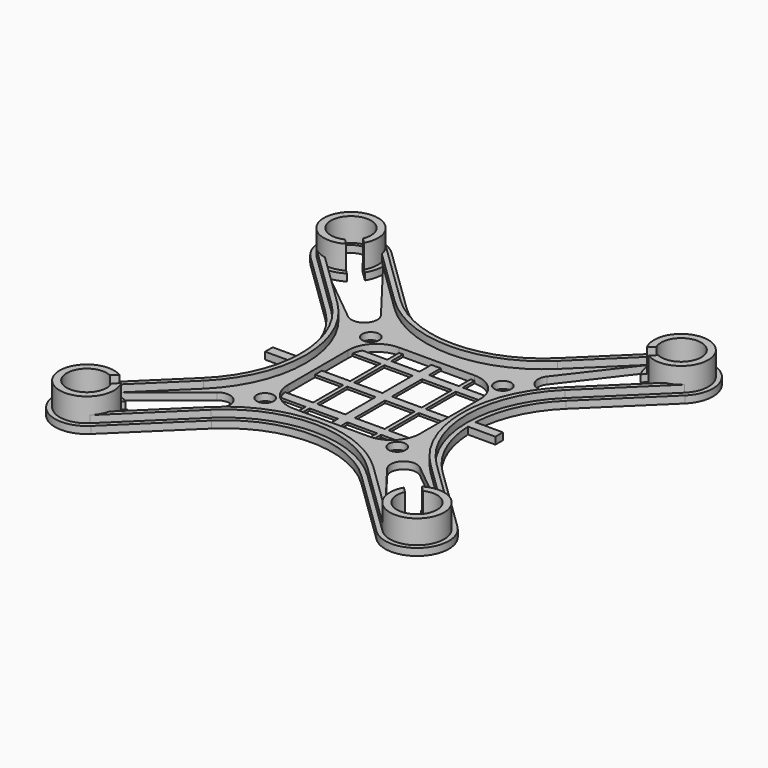
from build123d import *

# Parameters (mm, degrees)
F0_R     = 1.8
F1_DEPTH = 1.5
F3_DEPTH = 5
F4_W     = 6
F4_H     = 8
F4_W_2   = 6.3173136708
F4_H_2   = 7.9847562218
F5_DEPTH = 0.5
F7_DEPTH = 1.5


with BuildPart() as f1:
    # F0 (on Top) → F1 (new body)
    with BuildSketch(Plane.XY):
        with BuildLine():
            ThreePointArc((30.2947208453, -39.839715702), (39.839715702, -39.7052791547), (39.7052791547, -30.160284298))
            Line((39.7052791547, -30.160284298), (25.4737343034, -16.324060137))
            ThreePointArc((25.4737343034, -16.324060137), (20.5716490229, -9.3191358224), (18.5989899244, -1))
            Line((18.5989899244, -1), (18.4, -1))
            Line((18.4, -1), (18.4, 1))
            Line((18.4, 1), (18.5989899244, 1))
            ThreePointArc((18.5989899244, 1), (20.5716490229, 9.3191358224), (25.4737343034, 16.324060137))
            Line((25.4737343034, 16.324060137), (39.7052791547, 30.160284298))
            ThreePointArc((39.7052791547, 30.160284298), (39.839715702, 39.7052791547), (30.2947208453, 39.839715702))
            Line((30.2947208453, 39.839715702), (15.8843253479, 25.8296089685))
            ThreePointArc((15.8843253479, 25.8296089685), (0, 19.3807721835), (-15.8843253479, 25.8296089685))
            Line((-15.8843253479, 25.8296089685), (-30.2947208453, 39.839715702))
            ThreePointArc((-30.2947208453, 39.839715702), (-39.839715702, 39.7052791547), (-39.7052791547, 30.160284298))
            Line((-39.7052791547, 30.160284298), (-25.4737343034, 16.324060137))
            ThreePointArc((-25.4737343034, 16.324060137), (-20.5716490229, 9.3191358224), (-18.5989899244, 1))
            Line((-18.5989899244, 1), (-18.4, 1))
            Line((-18.4, 1), (-18.4, -1))
            Line((-18.4, -1), (-18.5989899244, -1))
            ThreePointArc((-18.5989899244, -1), (-20.5716490229, -9.3191358224), (-25.4737343034, -16.324060137))
            Line((-25.4737343034, -16.324060137), (-39.7052791547, -30.160284298))
            ThreePointArc((-39.7052791547, -30.160284298), (-39.839715702, -39.7052791547), (-30.2947208453, -39.839715702))
            Line((-30.2947208453, -39.839715702), (-15.8843253479, -25.8296089685))
            ThreePointArc((-15.8843253479, -25.8296089685), (0, -19.3807721835), (15.8843253479, -25.8296089685))
            Line((15.8843253479, -25.8296089685), (30.2947208453, -39.839715702))
        make_face()
        with BuildLine():
            Line((-33.7782805757, -31.7201521913), (-31.326913931, -29.3368790645))
            ThreePointArc((-31.326913931, -29.3368790645), (-33.0237108275, -28.5457935339), (-34.8725355344, -28.2512036029))
            Line((-34.8725355344, -28.2512036029), (-21.5236645835, -17.3894939319))
            ThreePointArc((-21.5236645835, -17.3894939319), (-17.8712196925, -17.5506774511), (-17.6066202289, -21.197089514))
            Line((-17.6066202289, -21.197089514), (-28.2502907982, -35.0626553316))
            ThreePointArc((-28.2502907982, -35.0626553316), (-28.4926946348, -33.2062673322), (-29.2356787512, -31.487863821))
            Line((-29.2356787512, -31.487863821), (-31.6870453958, -33.8711369477))
            ThreePointArc((-31.6870453958, -33.8711369477), (-37.5094822159, -37.4397743765), (-33.7782805757, -31.7201521913))
        make_face(mode=Mode.SUBTRACT)
        with Locations((-14, -14)):
            Circle(F0_R, mode=Mode.SUBTRACT)
        with BuildLine():
            ThreePointArc((33.7782805757, -31.7201521913), (37.5094822159, -37.4397743765), (31.6870453958, -33.8711369477))
            Line((31.6870453958, -33.8711369477), (29.2356787512, -31.487863821))
            ThreePointArc((29.2356787512, -31.487863821), (28.4926946348, -33.2062673322), (28.2502907982, -35.0626553316))
            Line((28.2502907982, -35.0626553316), (17.6066202289, -21.197089514))
            ThreePointArc((17.6066202289, -21.197089514), (17.8712196925, -17.5506774511), (21.5236645835, -17.3894939319))
            Line((21.5236645835, -17.3894939319), (34.8725355344, -28.2512036029))
            ThreePointArc((34.8725355344, -28.2512036029), (33.0237108275, -28.5457935339), (31.326913931, -29.3368790645))
            Line((31.326913931, -29.3368790645), (33.7782805757, -31.7201521913))
        make_face(mode=Mode.SUBTRACT)
        with Locations((14, -14)):
            Circle(F0_R, mode=Mode.SUBTRACT)
        with Locations((-14, 14)):
            Circle(F0_R, mode=Mode.SUBTRACT)
        with BuildLine():
            ThreePointArc((-33.7782805757, 31.7201521913), (-37.5094822159, 37.4397743765), (-31.6870453958, 33.8711369477))
            Line((-31.6870453958, 33.8711369477), (-29.2356787512, 31.487863821))
            ThreePointArc((-29.2356787512, 31.487863821), (-28.4926946348, 33.2062673322), (-28.2502907982, 35.0626553316))
            Line((-28.2502907982, 35.0626553316), (-17.6066202289, 21.197089514))
            ThreePointArc((-17.6066202289, 21.197089514), (-17.8712196925, 17.5506774511), (-21.5236645835, 17.3894939319))
            Line((-21.5236645835, 17.3894939319), (-34.8725355344, 28.2512036029))
            ThreePointArc((-34.8725355344, 28.2512036029), (-33.0237108275, 28.5457935339), (-31.326913931, 29.3368790645))
            Line((-31.326913931, 29.3368790645), (-33.7782805757, 31.7201521913))
        make_face(mode=Mode.SUBTRACT)
        with BuildLine():
            ThreePointArc((14, -8), (12.2426406871, -12.2426406871), (8, -14))
            Line((8, -14), (-8, -14))
            ThreePointArc((-8, -14), (-12.2426406871, -12.2426406871), (-14, -8))
            Line((-14, -8), (-14, 8))
            ThreePointArc((-14, 8), (-12.2426406871, 12.2426406871), (-8, 14))
            Line((-8, 14), (8, 14))
            ThreePointArc((8, 14), (12.2426406871, 12.2426406871), (14, 8))
            Line((14, 8), (14, -8))
        make_face(mode=Mode.SUBTRACT)
        with Locations((14, 14)):
            Circle(F0_R, mode=Mode.SUBTRACT)
        with BuildLine():
            ThreePointArc((31.326913931, 29.3368790645), (33.0237108275, 28.5457935339), (34.8725355344, 28.2512036029))
            Line((34.8725355344, 28.2512036029), (21.5236645835, 17.3894939319))
            ThreePointArc((21.5236645835, 17.3894939319), (17.8712196925, 17.5506774511), (17.6066202289, 21.197089514))
            Line((17.6066202289, 21.197089514), (28.2502907982, 35.0626553316))
            ThreePointArc((28.2502907982, 35.0626553316), (28.4926946348, 33.2062673322), (29.2356787512, 31.487863821))
            Line((29.2356787512, 31.487863821), (31.6870453958, 33.8711369477))
            ThreePointArc((31.6870453958, 33.8711369477), (37.5094822159, 37.4397743765), (33.7782805757, 31.7201521913))
            Line((33.7782805757, 31.7201521913), (31.326913931, 29.3368790645))
        make_face(mode=Mode.SUBTRACT)
        with BuildLine():
            Line((18.4, -1), (18.5989899244, -1))
            ThreePointArc((18.5989899244, -1), (18.5770180298, 0), (18.5989899244, 1))
            Line((18.5989899244, 1), (18.4, 1))
            Line((18.4, 1), (18.4, -1))
        make_face()
        with BuildLine():
            ThreePointArc((18.5989899244, 1), (18.5770180298, 0), (18.5989899244, -1))
            Line((18.5989899244, -1), (24.4, -1))
            Line((24.4, -1), (24.4, 1))
            Line((24.4, 1), (18.5989899244, 1))
        make_face()
        with BuildLine():
            Line((-24.4, -1), (-18.5989899244, -1))
            ThreePointArc((-18.5989899244, -1), (-18.5770180298, 0), (-18.5989899244, 1))
            Line((-18.5989899244, 1), (-24.4, 1))
            Line((-24.4, 1), (-24.4, -1))
        make_face()
        with BuildLine():
            ThreePointArc((-18.5989899244, 1), (-18.5770180298, 0), (-18.5989899244, -1))
            Line((-18.5989899244, -1), (-18.4, -1))
            Line((-18.4, -1), (-18.4, 1))
            Line((-18.4, 1), (-18.5989899244, 1))
        make_face()
    extrude(amount=F1_DEPTH)

    # F2 (on face) → F3 (join)
    with BuildSketch(Plane.XY.offset(1.5)):
        with BuildLine():
            ThreePointArc((29.9744147217, -32.2060793479), (39.1227207832, -39.0082007614), (32.0656499016, -30.0550945914))
            Line((32.0656499016, -30.0550945914), (33.1944920058, -31.1525799706))
            ThreePointArc((33.1944920058, -31.1525799706), (38.047228405, -37.9625831715), (31.1032568259, -33.303564727))
            Line((31.1032568259, -33.303564727), (29.9744147217, -32.2060793479))
        make_face()
        with BuildLine():
            Line((-33.1944920058, -31.1525799706), (-32.0656499016, -30.0550945914))
            ThreePointArc((-32.0656499016, -30.0550945914), (-39.1227207832, -39.0082007614), (-29.9744147217, -32.2060793479))
            Line((-29.9744147217, -32.2060793479), (-31.1032568259, -33.303564727))
            ThreePointArc((-31.1032568259, -33.303564727), (-38.047228405, -37.9625831715), (-33.1944920058, -31.1525799706))
        make_face()
        with BuildLine():
            Line((33.1944920058, 31.1525799706), (32.0656499016, 30.0550945914))
            ThreePointArc((32.0656499016, 30.0550945914), (39.1227207832, 39.0082007614), (29.9744147217, 32.2060793479))
            Line((29.9744147217, 32.2060793479), (31.1032568259, 33.303564727))
            ThreePointArc((31.1032568259, 33.303564727), (38.047228405, 37.9625831715), (33.1944920058, 31.1525799706))
        make_face()
        with BuildLine():
            ThreePointArc((-33.1944920058, 31.1525799706), (-38.047228405, 37.9625831715), (-31.1032568259, 33.303564727))
            Line((-31.1032568259, 33.303564727), (-29.9744147217, 32.2060793479))
            ThreePointArc((-29.9744147217, 32.2060793479), (-39.1227207832, 39.0082007614), (-32.0656499016, 30.0550945914))
            Line((-32.0656499016, 30.0550945914), (-33.1944920058, 31.1525799706))
        make_face()
    extrude(amount=F3_DEPTH)

    # F4 (on Top) → F5 (join)
    with BuildSketch(Plane.XY):
        with BuildLine():
            Line((7.1586568354, -14), (8, -14))
            Line((8, -14), (8, -10.7798451168))
            Line((8, -10.7798451168), (13.3171854516, -10.7798451168))
            ThreePointArc((13.3171854516, -10.7798451168), (13.7212167423, -9.8076722567), (13.9491042682, -8.7798451168))
            Line((13.9491042682, -8.7798451168), (8, -8.7798451168))
            Line((8, -8.7798451168), (8, -0.7798451168))
            Line((8, -0.7798451168), (14, -0.7798451168))
            Line((14, -0.7798451168), (14, 1.0397777719))
            Line((14, 1.0397777719), (8, 1.0397777719))
            Line((8, 1.0397777719), (8, 9.0245339936))
            Line((8, 9.0245339936), (13.9118804196, 9.0245339936))
            ThreePointArc((13.9118804196, 9.0245339936), (13.6649401534, 9.9769807937), (13.2656547913, 10.8762613961))
            Line((13.2656547913, 10.8762613961), (8, 10.8762613961))
            Line((8, 10.8762613961), (8, 14))
            Line((8, 14), (7.1586568354, 14))
            Line((7.1586568354, 14), (7.1586568354, 10.8762613961))
            Line((7.1586568354, 10.8762613961), (0.8413431646, 10.8762613961))
            Line((0.8413431646, 10.8762613961), (0.8413431646, 14))
            Line((0.8413431646, 14), (-1.1586568354, 14))
            Line((-1.1586568354, 14), (-1.1586568354, 10.8762613961))
            Line((-1.1586568354, 10.8762613961), (-7.1586568354, 10.8762613961))
            Line((-7.1586568354, 10.8762613961), (-7.1586568354, 14))
            Line((-7.1586568354, 14), (-8, 14))
            Line((-8, 14), (-8, 10.8762613961))
            Line((-8, 10.8762613961), (-13.2656547913, 10.8762613961))
            ThreePointArc((-13.2656547913, 10.8762613961), (-13.6649401534, 9.9769807937), (-13.9118804196, 9.0245339936))
            Line((-13.9118804196, 9.0245339936), (-8, 9.0245339936))
            Line((-8, 9.0245339936), (-8, 1.0397777719))
            Line((-8, 1.0397777719), (-14, 1.0397777719))
            Line((-14, 1.0397777719), (-14, -0.7798451168))
            Line((-14, -0.7798451168), (-8, -0.7798451168))
            Line((-8, -0.7798451168), (-8, -8.7798451168))
            Line((-8, -8.7798451168), (-13.9491042682, -8.7798451168))
            ThreePointArc((-13.9491042682, -8.7798451168), (-13.7212167423, -9.8076722567), (-13.3171854516, -10.7798451168))
            Line((-13.3171854516, -10.7798451168), (-8, -10.7798451168))
            Line((-8, -10.7798451168), (-8, -14))
            Line((-8, -14), (-7.1586568354, -14))
            Line((-7.1586568354, -14), (-7.1586568354, -10.7798451168))
            Line((-7.1586568354, -10.7798451168), (-1.1586568354, -10.7798451168))
            Line((-1.1586568354, -10.7798451168), (-1.1586568354, -14))
            Line((-1.1586568354, -14), (0.8413431646, -14))
            Line((0.8413431646, -14), (0.8413431646, -10.7798451168))
            Line((0.8413431646, -10.7798451168), (7.1586568354, -10.7798451168))
            Line((7.1586568354, -10.7798451168), (7.1586568354, -14))
        make_face()
        with Locations((-4.1586568354, -4.7798451168)):
            Rectangle(F4_W, F4_H, mode=Mode.SUBTRACT)
        with Locations((4, -4.7798451168)):
            Rectangle(F4_W_2, F4_H, mode=Mode.SUBTRACT)
        with Locations((-4.1586568354, 5.0321558827)):
            Rectangle(F4_W, F4_H_2, mode=Mode.SUBTRACT)
        with Locations((4, 5.0321558827)):
            Rectangle(F4_W_2, F4_H_2, mode=Mode.SUBTRACT)
    extrude(amount=F5_DEPTH)

    # F6 (on face) → F7 (join)
    with BuildSketch(Plane.XY.offset(1.5)):
        with BuildLine():
            Line((-16.5814037412, 25.1126140497), (-30.9917992386, 39.1227207832))
            ThreePointArc((-30.9917992386, 39.1227207832), (-29.9543075236, 37.7574421904), (-29.3655485564, 36.1469337077))
            Line((-29.3655485564, 36.1469337077), (-17.2784821345, 24.3956191308))
            ThreePointArc((-17.2784821345, 24.3956191308), (0, 17.3807721835), (17.2784821345, 24.3956191308))
            Line((17.2784821345, 24.3956191308), (29.3655485564, 36.1469337077))
            ThreePointArc((29.3655485564, 36.1469337077), (29.9543075236, 37.7574421904), (30.9917992386, 39.1227207832))
            Line((30.9917992386, 39.1227207832), (16.5814037412, 25.1126140497))
            ThreePointArc((16.5814037412, 25.1126140497), (0, 18.3807721835), (-16.5814037412, 25.1126140497))
        make_face()
        with BuildLine():
            ThreePointArc((35.9877932927, -29.3354819789), (37.6142444086, -29.8786499659), (39.0082007614, -30.8772792168))
            Line((39.0082007614, -30.8772792168), (24.7766559101, -17.0410550558))
            ThreePointArc((24.7766559101, -17.0410550558), (17.5770180298, 0), (24.7766559101, 17.0410550558))
            Line((24.7766559101, 17.0410550558), (39.0082007614, 30.8772792168))
            ThreePointArc((39.0082007614, 30.8772792168), (37.6142444086, 29.8786499659), (35.9877932927, 29.3354819789))
            Line((35.9877932927, 29.3354819789), (24.0795775168, 17.7580499746))
            ThreePointArc((24.0795775168, 17.7580499746), (16.5770180298, 0), (24.0795775168, -17.7580499746))
            Line((24.0795775168, -17.7580499746), (35.9877932927, -29.3354819789))
        make_face()
        with BuildLine():
            ThreePointArc((-29.3655485564, -36.1469337077), (-29.9543075236, -37.7574421904), (-30.9917992386, -39.1227207832))
            Line((-30.9917992386, -39.1227207832), (-16.5814037412, -25.1126140497))
            ThreePointArc((-16.5814037412, -25.1126140497), (0, -18.3807721835), (16.5814037412, -25.1126140497))
            Line((16.5814037412, -25.1126140497), (30.9917992386, -39.1227207832))
            ThreePointArc((30.9917992386, -39.1227207832), (29.9543075236, -37.7574421904), (29.3655485564, -36.1469337077))
            Line((29.3655485564, -36.1469337077), (17.2784821345, -24.3956191308))
            ThreePointArc((17.2784821345, -24.3956191308), (0, -17.3807721835), (-17.2784821345, -24.3956191308))
            Line((-17.2784821345, -24.3956191308), (-29.3655485564, -36.1469337077))
        make_face()
        with BuildLine():
            ThreePointArc((-35.9877932927, 29.3354819789), (-37.6142444086, 29.8786499659), (-39.0082007614, 30.8772792168))
            Line((-39.0082007614, 30.8772792168), (-24.7766559101, 17.0410550558))
            ThreePointArc((-24.7766559101, 17.0410550558), (-17.5770180298, 0), (-24.7766559101, -17.0410550558))
            Line((-24.7766559101, -17.0410550558), (-39.0082007614, -30.8772792168))
            ThreePointArc((-39.0082007614, -30.8772792168), (-37.6142444086, -29.8786499659), (-35.9877932927, -29.3354819789))
            Line((-35.9877932927, -29.3354819789), (-24.0795775168, -17.7580499746))
            ThreePointArc((-24.0795775168, -17.7580499746), (-16.5770180298, 0), (-24.0795775168, 17.7580499746))
            Line((-24.0795775168, 17.7580499746), (-35.9877932927, 29.3354819789))
        make_face()
    extrude(amount=F7_DEPTH)


solid = f1.part
